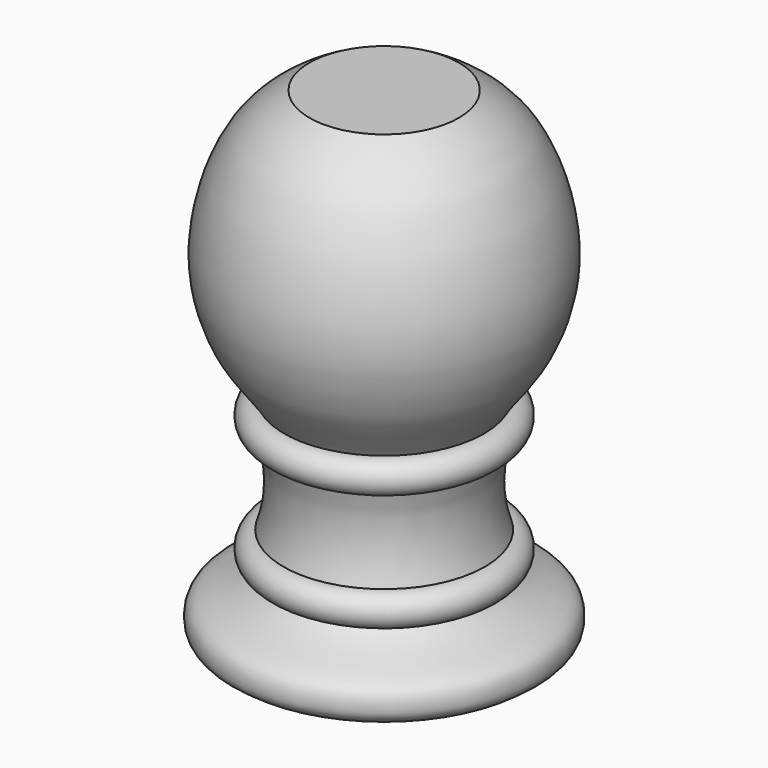
from build123d import *


with BuildPart() as f1:
    # F0 (on Front) → F1 (revolve)
    with BuildSketch(Plane.XZ):
        with BuildLine():
            Line((15.5, 27.5057116947), (15.5, 27.5))
            ThreePointArc((15.5, 27.5), (17.9991740891, 30.0642563011), (15.3715298538, 32.4966969022))
            add(Edge.make_bspline(
                [(15.3715298538, 32.4966969022), (15.9386695207, 33.6662155254), (19.2194224752, 37.4878109651), (22.2805130067, 43.1567415406), (24.4075251322, 52.4676664418), (21.0766995407, 66.121313167), (15.8779870532, 71.6042161228), (11.5, 74)],
                knots=[0, 0, 0, 0, 0.1595303107, 0.3290795204, 0.5290798225, 0.7684712784, 1, 1, 1, 1], degree=3))
            Line((11.5, 74), (0, 74))
            Line((0, 74), (0, 65.5677914619))
            Line((0, 65.5677914619), (0, 31.6582173109))
            Line((0, 31.6582173109), (0, 25))
            Line((0, 25), (12.5, 25))
            Line((12.5, 25), (12.5, 0))
            Line((12.5, 0), (22.187191993, 0))
            add(Edge.make_bspline(
                [(22.187191993, 0), (22.561523141, 0.2325509075), (23.6899295742, 0.9454527838), (24.1801412843, 2.414378847), (23.9279381516, 5.2792555504), (19.5134140619, 6.8127949495), (16.3451998628, 8.2856238036), (15.5, 9.5)],
                knots=[0, 0, 0, 0, 0.1537743037, 0.3007285128, 0.4847194217, 0.7361543726, 1, 1, 1, 1], degree=3))
            ThreePointArc((15.5, 9.5), (18, 12), (15.5, 14.5))
            add(Edge.make_bspline(
                [(15.5, 27.5057116947), (15.2326475749, 26.6050733381), (14.6616702217, 24.6816043262), (14.2808830032, 21.0229538702), (14.7283583539, 16.94904279), (15.2644566233, 15.2475695633), (15.5, 14.5)],
                knots=[0, 0, 0, 0, 0.2347937438, 0.5014426568, 0.7809508316, 1, 1, 1, 1], degree=3))
        make_face()
    revolve(axis=Axis((0, 0, 69.783895731), (0, 0, -1)))


solid = f1.part
